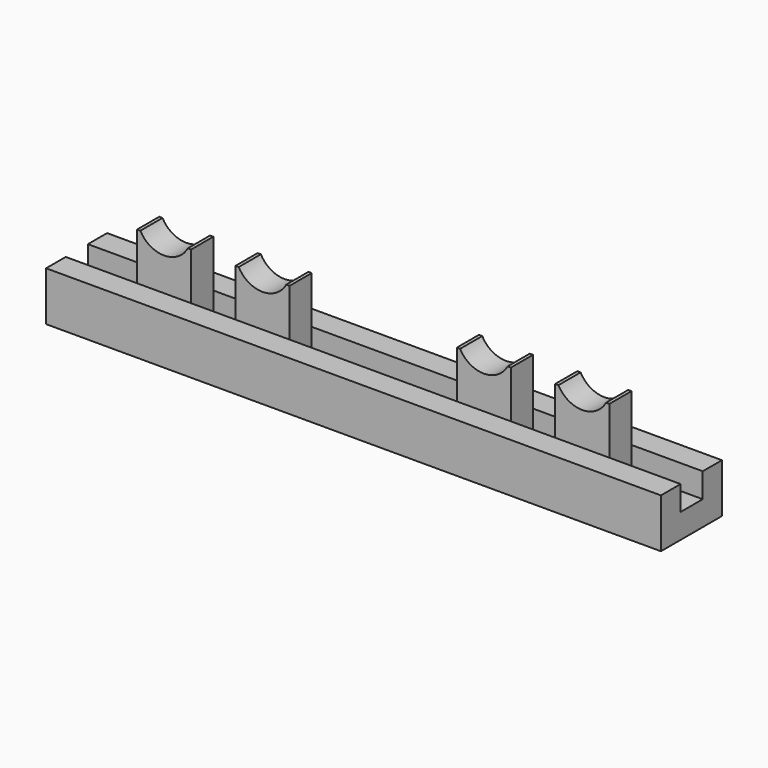
from build123d import *

# Parameters (mm, degrees)
SKETCH_W             = 50
SKETCH_H             = 6.2
PAD_DEPTH            = 4
SKETCH001_W          = 50
SKETCH001_H          = 2.25
POCKET_DEPTH         = 2
PAD001_DEPTH         = 2.25
SKETCH003_W          = 58.610697
SKETCH003_H          = 2.473083
POCKET001_DEPTH      = 5
POCKET001_DEPTH_BACK = -5


with BuildPart() as part:
    # Sketch → Pad (new body)
    with BuildSketch(Plane.XY):
        with Locations((25, 3.1)):
            Rectangle(SKETCH_W, SKETCH_H)
    extrude(amount=PAD_DEPTH)

    # Sketch001 (on Face6 of Pad) → Pocket (cut)
    with BuildSketch(Plane.XY.offset(4)):
        with Locations((25, 3.125)):
            Rectangle(SKETCH001_W, SKETCH001_H)
    extrude(amount=-POCKET_DEPTH, mode=Mode.SUBTRACT)

    # Sketch002 (on Face8 of Pocket) → Pad001 (join)
    with BuildSketch(Plane.XZ.offset(-4.25)):
        with BuildLine():
            Line((5.8, 2), (10.2, 2))
            Line((10.2, 2), (10.2, 8.9))
            ThreePointArc((5.8, 8.9), (8, 6.7), (10.2, 8.9))
            Line((5.8, 8.9), (5.8, 2))
        make_face()
        with BuildLine():
            Line((13.8, 2), (18.2, 2))
            Line((18.2, 2), (18.2, 8.9))
            ThreePointArc((13.8, 8.9), (16, 6.7), (18.2, 8.9))
            Line((13.8, 8.9), (13.8, 2))
        make_face()
        with BuildLine():
            ThreePointArc((31.8, 8.9), (34, 6.7), (36.2, 8.9))
            Line((36.2, 8.9), (36.2, 2))
            Line((36.2, 2), (31.8, 2))
            Line((31.8, 2), (31.8, 8.9))
        make_face()
        with BuildLine():
            ThreePointArc((39.8, 8.9), (42, 6.7), (44.2, 8.9))
            Line((44.2, 8.9), (44.2, 2))
            Line((44.2, 2), (39.8, 2))
            Line((39.8, 2), (39.8, 8.9))
        make_face()
    extrude(amount=PAD001_DEPTH)

    # Sketch003 (on Face17 of Pad001) → Pocket001 (cut, two sides)
    with BuildSketch(Plane(origin=(0, 2, 0), x_dir=(-1, 0, 0), z_dir=(0, 1, 0))) as pocket001_sk:
        with Locations((-25.710698, 9.085399)):
            Rectangle(SKETCH003_W, SKETCH003_H)
    extrude(amount=-POCKET001_DEPTH, mode=Mode.SUBTRACT)
    extrude(pocket001_sk.sketch, amount=-POCKET001_DEPTH_BACK, mode=Mode.SUBTRACT)


solid = part.part
